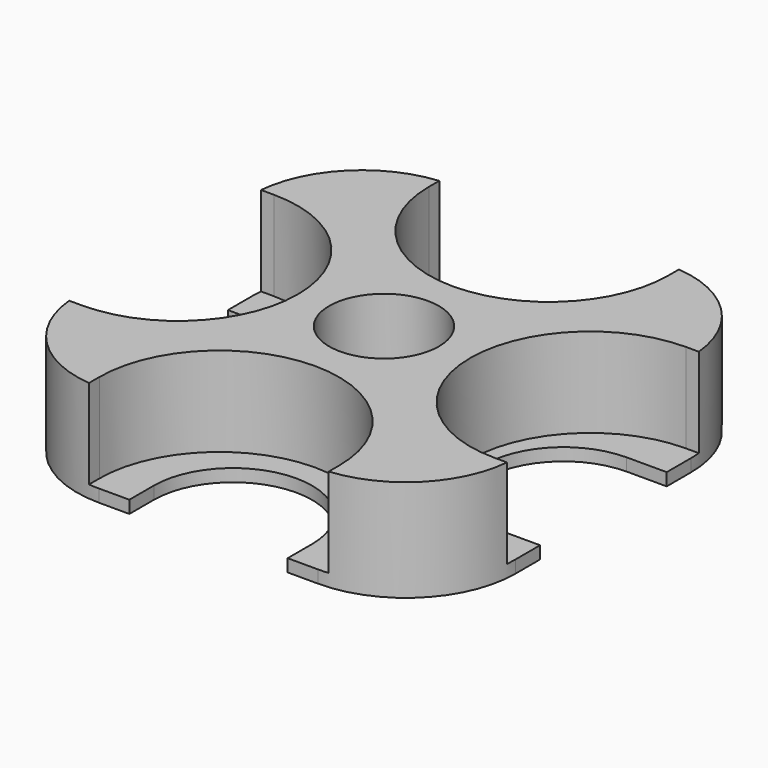
from build123d import *

# Parameters (mm, degrees)
F1_DEPTH = 8.255
F3_DEPTH = 7.239
F5_DEPTH = 25.4
F6_R     = 8.89
F7_R     = 4.445
F8_DEPTH = 25.4


with BuildPart() as f1:
    # F0 (on Top) → F1 (new body)
    with BuildSketch(Plane.XY):
        Polygon((8.144473, -17.78), (17.78, -17.78), (17.78, 17.78), (-17.78, 17.78), (-17.78, -17.78), (-8.144473, -17.78), align=None)
    extrude(amount=F1_DEPTH)

    # F2 (on face) → F3 (cut)
    with BuildSketch(Plane.XY.offset(8.255)):
        with BuildLine():
            Line((-9.7155, 17.78), (-9.7155, 16.7005))
            ThreePointArc((-9.7155, 16.7005), (0, 6.985), (9.7155, 16.7005))
            Line((9.7155, 16.7005), (9.7155, 17.78))
            Line((9.7155, 17.78), (-9.7155, 17.78))
        make_face()
        with BuildLine():
            Line((17.78, 9.7155), (16.7005, 9.7155))
            ThreePointArc((16.7005, 9.7155), (6.985, 0), (16.7005, -9.7155))
            Line((16.7005, -9.7155), (17.78, -9.7155))
            Line((17.78, -9.7155), (17.78, 9.7155))
        make_face()
        with BuildLine():
            Line((-17.78, -9.7155), (-16.7005, -9.7155))
            ThreePointArc((-16.7005, -9.7155), (-6.985, 0), (-16.7005, 9.7155))
            Line((-16.7005, 9.7155), (-17.78, 9.7155))
            Line((-17.78, 9.7155), (-17.78, -9.7155))
        make_face()
        with BuildLine():
            Line((9.7155, -17.78), (9.7155, -16.7005))
            ThreePointArc((9.7155, -16.7005), (0, -6.985), (-9.7155, -16.7005))
            Line((-9.7155, -16.7005), (-9.7155, -17.78))
            Line((-9.7155, -17.78), (9.7155, -17.78))
        make_face()
    extrude(amount=-F3_DEPTH, mode=Mode.SUBTRACT)

    # F4 (on face) → F5 (cut)
    with BuildSketch(Plane(origin=(0, 0, 0), x_dir=(1, 0, 0), z_dir=(0, 0, -1))):
        with BuildLine():
            Line((-6.4135, 17.78), (-6.4135, 15.3035))
            ThreePointArc((-6.4135, 15.3035), (0, 8.89), (6.4135, 15.3035))
            Line((6.4135, 15.3035), (6.4135, 17.78))
            Line((6.4135, 17.78), (-6.4135, 17.78))
        make_face()
        with BuildLine():
            Line((17.78, 6.4135), (14.5415, 6.4135))
            ThreePointArc((14.5415, 6.4135), (8.128, 0), (14.5415, -6.4135))
            Line((14.5415, -6.4135), (17.78, -6.4135))
            Line((17.78, -6.4135), (17.78, 6.4135))
        make_face()
        with BuildLine():
            Line((-17.78, -6.4135), (-15.0495, -6.4135))
            ThreePointArc((-15.0495, -6.4135), (-8.636, 0), (-15.0495, 6.4135))
            Line((-15.0495, 6.4135), (-17.78, 6.4135))
            Line((-17.78, 6.4135), (-17.78, -6.4135))
        make_face()
        with BuildLine():
            Line((6.4135, -17.78), (6.4135, -14.7955))
            ThreePointArc((6.4135, -14.7955), (0, -8.382), (-6.4135, -14.7955))
            Line((-6.4135, -14.7955), (-6.4135, -17.78))
            Line((-6.4135, -17.78), (6.4135, -17.78))
        make_face()
    extrude(amount=-F5_DEPTH, mode=Mode.SUBTRACT)

    # F6
    f6_edges = [f1.edges().sort_by_distance(p)[0] for p in [
        (-17.78, 17.78, 4.1275),
        (-17.78, -17.78, 4.1275),
        (17.78, -17.78, 4.1275),
        (17.78, 17.78, 4.1275),
    ]]
    fillet(f6_edges, radius=F6_R)

    # F7 (on face) → F8 (cut)
    with BuildSketch(Plane(origin=(0, 0, 0), x_dir=(1, 0, 0), z_dir=(0, 0, -1))):
        Circle(F7_R)
    extrude(amount=-F8_DEPTH, mode=Mode.SUBTRACT)


solid = f1.part
